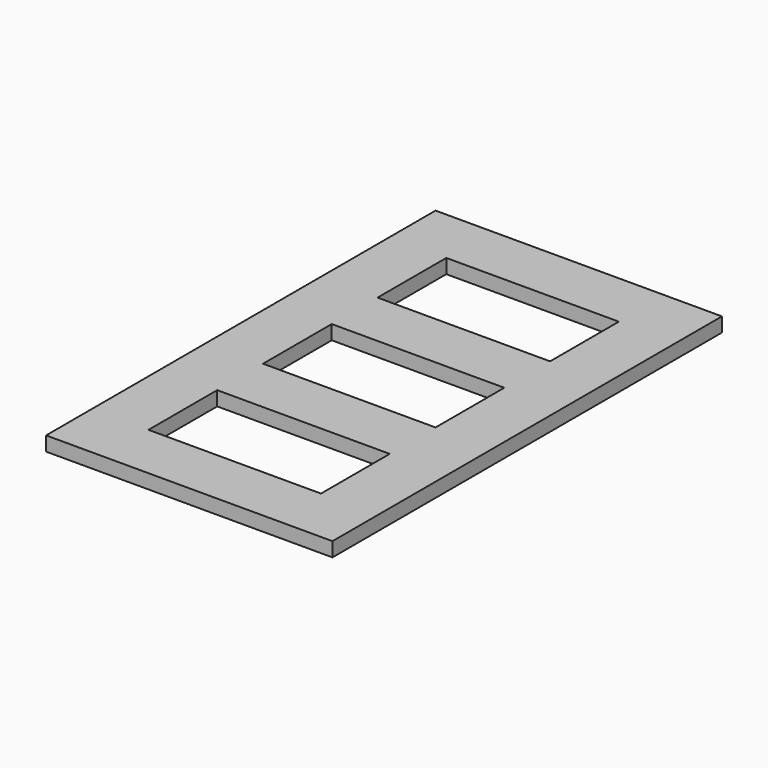
from build123d import *

# Parameters (mm, degrees)
F0_W     = 306.0534086764
F0_H     = 101.6
F0_W_2   = 101.6
F0_H_2   = 152.4
F0_W_3   = 100.3465913236
F1_DEPTH = 25.4


with BuildPart() as f1:
    # F0 (on Top) → F1 (new body)
    with BuildSketch(Plane.XY):
        with Locations((220.9462343127, 820.6196134418)):
            Rectangle(F0_W, F0_H)
        with Locations((220.9462343127, 566.6196134418)):
            Rectangle(F0_W, F0_H)
        with Locations((220.9462343127, 312.6196134418)):
            Rectangle(F0_W, F0_H)
        with Locations((220.9462343127, 58.6196134418)):
            Rectangle(F0_W, F0_H)
        with Locations((424.7729386508, 58.6196134418)):
            Rectangle(F0_W_2, F0_H)
        with Locations((424.7729386508, 185.6196134418)):
            Rectangle(F0_W_2, F0_H_2)
        with Locations((424.7729386508, 312.6196134418)):
            Rectangle(F0_W_2, F0_H)
        with Locations((424.7729386508, 439.6196134418)):
            Rectangle(F0_W_2, F0_H_2)
        with Locations((424.7729386508, 566.6196134418)):
            Rectangle(F0_W_2, F0_H)
        with Locations((424.7729386508, 693.6196134418)):
            Rectangle(F0_W_2, F0_H_2)
        with Locations((424.7729386508, 820.6196134418)):
            Rectangle(F0_W_2, F0_H)
        with Locations((17.7462343127, 820.6196134418)):
            Rectangle(F0_W_3, F0_H)
        with Locations((17.7462343127, 693.6196134418)):
            Rectangle(F0_W_3, F0_H_2)
        with Locations((17.7462343127, 566.6196134418)):
            Rectangle(F0_W_3, F0_H)
        with Locations((17.7462343127, 439.6196134418)):
            Rectangle(F0_W_3, F0_H_2)
        with Locations((17.7462343127, 312.6196134418)):
            Rectangle(F0_W_3, F0_H)
        with Locations((17.7462343127, 185.6196134418)):
            Rectangle(F0_W_3, F0_H_2)
        with Locations((17.7462343127, 58.6196134418)):
            Rectangle(F0_W_3, F0_H)
    extrude(amount=F1_DEPTH)


solid = f1.part
